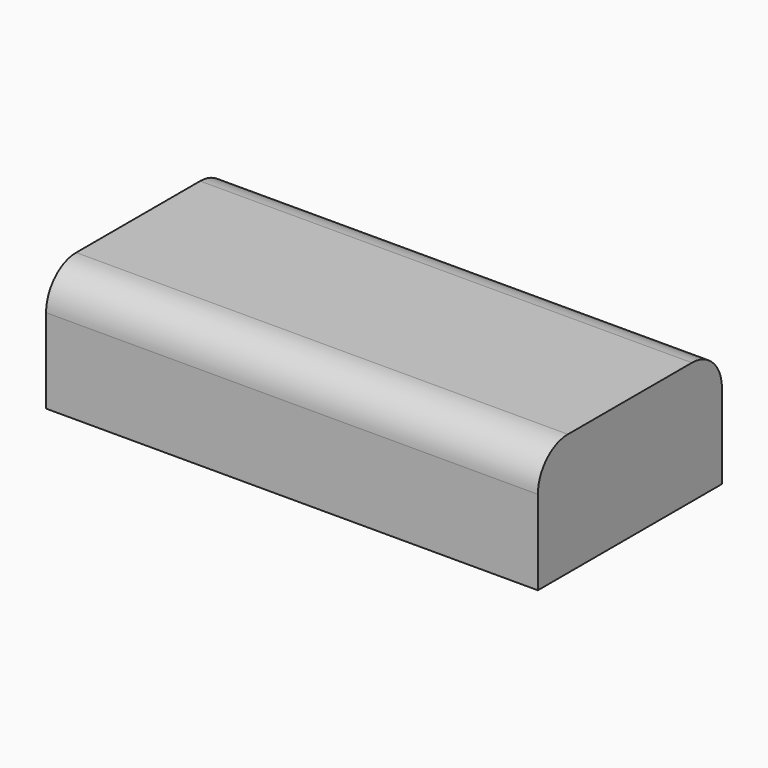
from build123d import *

# Parameters (mm, degrees)
F1_DEPTH = 26.6065


with BuildPart() as f1:
    # F0 (on Right) → F1 (new body, symmetric)
    with BuildSketch(Plane.YZ):
        with BuildLine():
            ThreePointArc((12.446, 2.54), (11.255682, 5.413682), (8.382, 6.604))
            Line((8.382, 6.604), (-8.382, 6.604))
            ThreePointArc((-8.382, 6.604), (-11.255682, 5.413682), (-12.446, 2.54))
            Line((-12.446, 2.54), (-12.446, -6.604))
            Line((-12.446, -6.604), (12.446, -6.604))
            Line((12.446, -6.604), (12.446, 2.54))
        make_face()
    extrude(amount=F1_DEPTH, both=True)


solid = f1.part
